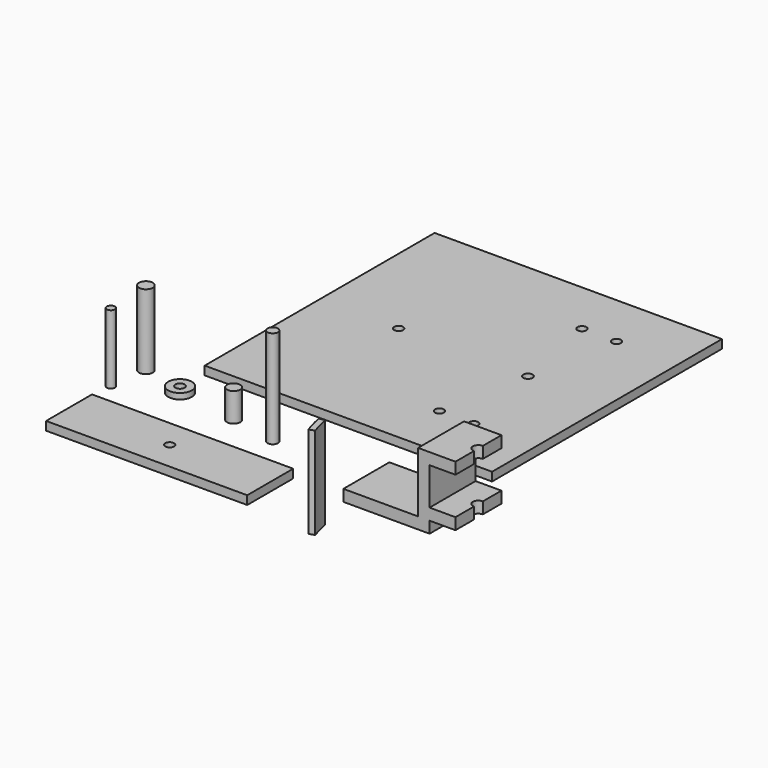
from build123d import *

# Parameters (mm, degrees)
F0_W      = 100
F0_H      = 100
F1_DEPTH  = 3
F2_R      = 1.55
F2_R_2    = 1.6
F3_DEPTH  = 2
F0_R      = 2.4
F4_DEPTH  = 26
F0_R_2    = 4.1
F0_R_3    = 1.6
F5_DEPTH  = 2
F0_W_2    = 70
F0_H_2    = 20
F0_R_4    = 1.55
F6_DEPTH  = 3
F7_DEPTH  = 2
F8_R      = 1.55
F9_DEPTH  = 2
F10_DEPTH = 2
F0_R_5    = 2.3
F11_DEPTH = 10
F0_R_6    = 1.4
F12_DEPTH = 24
F0_R_7    = 1.8
F13_DEPTH = 34
F0_W_3    = 30
F14_DEPTH = 4
F15_W     = 4
F15_H     = 20
F16_DEPTH = 21
F17_W     = 13
F17_H     = 20
F18_DEPTH = 4
F19_DEPTH = 4
F20_DEPTH = 30.001
F21_DEPTH = 32


with BuildPart() as f1:
    # F0 (on Top) → F1 (new body)
    with BuildSketch(Plane.XY):
        with Locations((0, 78.091673553)):
            Rectangle(F0_W, F0_H)
    extrude(amount=F1_DEPTH)

    # F2 (on face) → F3 (cut)
    with BuildSketch(Plane.XY.offset(3)):
        with Locations((-22.5, 78.091673553)):
            Circle(F2_R)
        with Locations((22.5, 78.091673553)):
            Circle(F2_R_2)
    extrude(amount=-F3_DEPTH, mode=Mode.SUBTRACT)

    # F2 (on face) → F10 (cut)
    with BuildSketch(Plane.XY.offset(3)):
        with Locations((28.5, 109.091673553)):
            Circle(F2_R)
        with Locations((16.5, 109.091673553)):
            Circle(F2_R)
        with Locations((16.5, 47.091673553)):
            Circle(F2_R)
        with Locations((28.5, 47.091673553)):
            Circle(F2_R)
    extrude(amount=-F10_DEPTH, mode=Mode.SUBTRACT)


with BuildPart() as f4:
    # F0 (on Top) → F4 (new body)
    with BuildSketch(Plane.XY):
        with Locations((-64.4254460931, 20.5304846168)):
            Circle(F0_R)
    extrude(amount=F4_DEPTH)


with BuildPart() as f5:
    # F0 (on Top) → F5 (new body)
    with BuildSketch(Plane.XY):
        with Locations((-48.9166043699, 16.0004515201)):
            Circle(F0_R_2)
        with Locations((-48.9166043699, 16.0004515201)):
            Circle(F0_R_3, mode=Mode.SUBTRACT)
    extrude(amount=F5_DEPTH)


with BuildPart() as f6:
    # F0 (on Top) → F6 (new body)
    with BuildSketch(Plane.XY):
        with Locations((-28.3213892579, -14.2588720098)):
            Rectangle(F0_W_2, F0_H_2)
        with Locations((-59.3213892579, -20.2588720098)):
            Circle(F0_R_4, mode=Mode.SUBTRACT)
        with Locations((-59.3213892579, -8.2588720098)):
            Circle(F0_R_4, mode=Mode.SUBTRACT)
        with Locations((2.6786107421, -20.2588720098)):
            Circle(F0_R_4, mode=Mode.SUBTRACT)
        with Locations((2.6786107421, -8.2588720098)):
            Circle(F0_R_4, mode=Mode.SUBTRACT)
        with Locations((-59.3213892579, -8.2588720098)):
            Circle(F0_R_4)
        with Locations((-59.3213892579, -20.2588720098)):
            Circle(F0_R_4)
        with Locations((2.6786107421, -8.2588720098)):
            Circle(F0_R_4)
        with Locations((2.6786107421, -20.2588720098)):
            Circle(F0_R_4)
    extrude(amount=F6_DEPTH)

    # F0 (on Top) → F7 (cut)
    with BuildSketch(Plane.XY):
        with Locations((2.6786107421, -8.2588720098)):
            Circle(F0_R_4)
        with Locations((2.6786107421, -20.2588720098)):
            Circle(F0_R_4)
        with Locations((-59.3213892579, -8.2588720098)):
            Circle(F0_R_4)
        with Locations((-59.3213892579, -20.2588720098)):
            Circle(F0_R_4)
    extrude(amount=F7_DEPTH, mode=Mode.SUBTRACT)

    # F8 (on face) → F9 (cut)
    with BuildSketch(Plane.XY.offset(3)):
        with Locations((-28.3213892579, -14.2588720098)):
            Circle(F8_R)
    extrude(amount=-F9_DEPTH, mode=Mode.SUBTRACT)


with BuildPart() as f11:
    # F0 (on Top) → F11 (new body)
    with BuildSketch(Plane.XY):
        with Locations((-27.5307968259, 12.5877708197)):
            Circle(F0_R_5)
    extrude(amount=F11_DEPTH)


with BuildPart() as f12:
    # F0 (on Top) → F12 (new body)
    with BuildSketch(Plane.XY):
        with Locations((-65.9205764532, 7.1743540466)):
            Circle(F0_R_6)
    extrude(amount=F12_DEPTH)


with BuildPart() as f13:
    # F0 (on Top) → F13 (new body)
    with BuildSketch(Plane.XY):
        with Locations((-11.3382367417, 9.3501862139)):
            Circle(F0_R_7)
    extrude(amount=F13_DEPTH)


with BuildPart() as f14:
    # F0 (on Top) → F14 (new body)
    with BuildSketch(Plane.XY):
        with Locations((40.9300172329, 3.5069335625)):
            Rectangle(F0_W_3, F0_H_2)
    extrude(amount=F14_DEPTH)

    # F15 (on face) → F16 (join)
    with BuildSketch(Plane.XY.offset(4)):
        with Locations((53.9300172329, 3.5069335625)):
            Rectangle(F15_W, F15_H)
    extrude(amount=F16_DEPTH)

    # F17 (on face) → F18 (join)
    with BuildSketch(Plane.XY.offset(25)):
        with Locations((58.4300172329, 3.5069335625)):
            Rectangle(F17_W, F17_H)
    extrude(amount=-F18_DEPTH)

    # F15 (on face) → F19 (join)
    with BuildSketch(Plane.XY.offset(4)):
        with BuildLine():
            Line((64.9300172329, 13.5069335625), (55.9300172329, 13.5069335625))
            Line((55.9300172329, 13.5069335625), (55.9300172329, -6.4930664375))
            Line((55.9300172329, -6.4930664375), (64.9300172329, -6.4930664375))
            Line((64.9300172329, -6.4930664375), (64.9300172329, 1.5569335625))
            ThreePointArc((64.9300172329, 1.5569335625), (62.9800172329, 3.5069335625), (64.9300172329, 5.4569335625))
            Line((64.9300172329, 5.4569335625), (64.9300172329, 13.5069335625))
        make_face()
        with BuildLine():
            Line((64.9300172329, 1.5569335625), (64.9300172329, 5.4569335625))
            ThreePointArc((64.9300172329, 5.4569335625), (62.9800172329, 3.5069335625), (64.9300172329, 1.5569335625))
        make_face()
    extrude(amount=F19_DEPTH)

    # F15 (on face) → F20 (cut, through all)
    with BuildSketch(Plane.XY.offset(4)):
        with BuildLine():
            Line((64.9300172329, 1.5569335625), (64.9300172329, 5.4569335625))
            ThreePointArc((64.9300172329, 5.4569335625), (62.9800172329, 3.5069335625), (64.9300172329, 1.5569335625))
        make_face()
        with BuildLine():
            ThreePointArc((66.8800172329, 3.5069335625), (66.3088754562, 4.8857917858), (64.9300172329, 5.4569335625))
            Line((64.9300172329, 5.4569335625), (64.9300172329, 1.5569335625))
            ThreePointArc((64.9300172329, 1.5569335625), (66.3088754562, 2.1280753391), (66.8800172329, 3.5069335625))
        make_face()
    extrude(amount=F20_DEPTH, mode=Mode.SUBTRACT)


with BuildPart() as f21:
    # F0 (on Top) → F21 (new body)
    with BuildSketch(Plane.XY):
        with BuildLine():
            ThreePointArc((32.1604046999, -26.5239069303), (31.1810598315, -23.3029801318), (30.4187339674, -20.0239032664))
            Line((30.4187339674, -20.0239032664), (28.456657675, -20.4115327583))
            ThreePointArc((28.456657675, -20.4115327583), (29.249208179, -23.820618222), (30.2673820406, -27.1692480892))
            Line((30.2673820406, -27.1692480892), (32.1604046999, -26.5239069303))
        make_face()
    extrude(amount=F21_DEPTH)


solid = Compound([f1.part, f4.part, f5.part, f6.part, f11.part, f12.part, f13.part, f14.part, f21.part])
